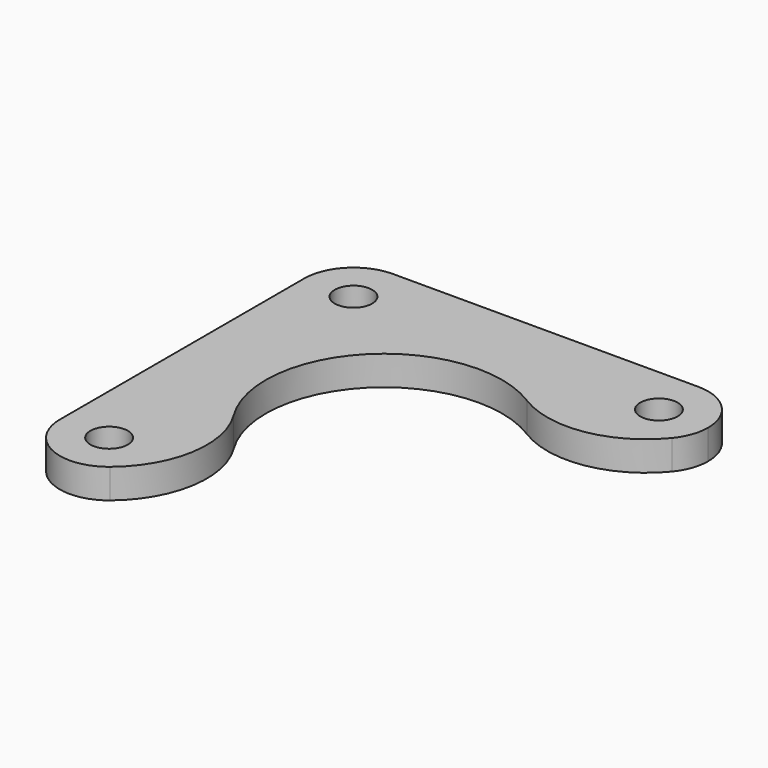
from build123d import *

# Parameters (mm, degrees)
F0_R     = 1.9
F1_DEPTH = 3


with BuildPart() as f1:
    # F0 (on Top) → F1 (new body)
    with BuildSketch(Plane.XY):
        with BuildLine():
            ThreePointArc((-10.5, 15.5), (-11.964466, 19.035534), (-15.5, 20.5))
            ThreePointArc((-15.5, 20.5), (-19.035534, 19.035534), (-20.5, 15.5))
            ThreePointArc((-20.5, 15.5), (-15.5, 10.5), (-10.5, 15.5))
        make_face()
        with Locations((-15.5, 15.5)):
            Circle(F0_R, mode=Mode.SUBTRACT)
        with BuildLine():
            ThreePointArc((19.365261, 12.328288), (10.980124, 13.362076), (15.5, 20.5))
            Line((15.5, 20.5), (-15.5, 20.5))
            ThreePointArc((-15.5, 20.5), (-11.964466, 19.035534), (-10.5, 15.5))
            ThreePointArc((-10.5, 15.5), (-15.5, 10.5), (-20.5, 15.5))
            Line((-20.5, 15.5), (-20.5, -15.5))
            ThreePointArc((-20.5, -15.5), (-15.5, -10.5), (-10.5, -15.5))
            ThreePointArc((-10.5, -15.5), (-10.980124, -17.637924), (-12.328288, -19.365261))
            ThreePointArc((-12.328288, -19.365261), (-8.804581, -13.259463), (-10.18457, -6.346221))
            ThreePointArc((-10.18457, -6.346221), (-8.485281, 8.485281), (6.346221, 10.18457))
            ThreePointArc((6.346221, 10.18457), (13.259463, 8.804581), (19.365261, 12.328288))
        make_face()
        with BuildLine():
            ThreePointArc((19.365261, 12.328288), (20.207776, 13.815705), (20.5, 15.5))
            ThreePointArc((20.5, 15.5), (19.035534, 19.035534), (15.5, 20.5))
            ThreePointArc((15.5, 20.5), (10.980124, 13.362076), (19.365261, 12.328288))
        make_face()
        with Locations((15.5, 15.5)):
            Circle(F0_R, mode=Mode.SUBTRACT)
        with BuildLine():
            ThreePointArc((-10.5, -15.5), (-15.5, -10.5), (-20.5, -15.5))
            ThreePointArc((-20.5, -15.5), (-17.637924, -20.019876), (-12.328288, -19.365261))
            ThreePointArc((-12.328288, -19.365261), (-10.980124, -17.637924), (-10.5, -15.5))
        make_face()
        with Locations((-15.5, -15.5)):
            Circle(F0_R, mode=Mode.SUBTRACT)
    extrude(amount=F1_DEPTH)


solid = f1.part
